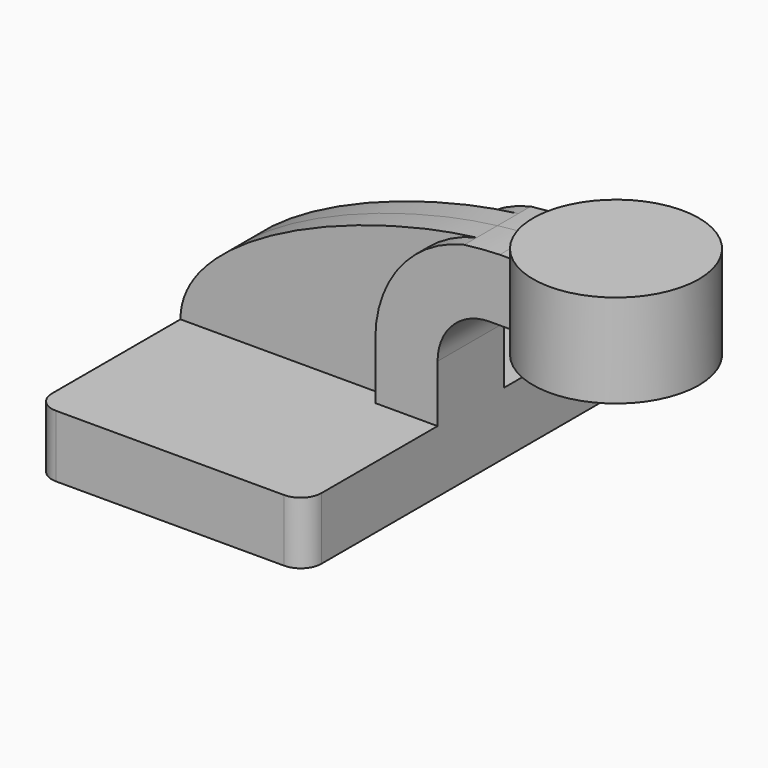
from build123d import *

# Parameters (mm, degrees)
F1_DEPTH = 63.5
F0_W     = 25.432032
F0_H     = 19.05
F2_DEPTH = 12.7
F3_DEPTH = 7.9375
F5_R     = 6.35


with BuildPart() as f1:
    # F0 (on Front) → F1 (new body, symmetric)
    with BuildSketch(Plane.XZ):
        Polygon((-41.275, -9.525), (41.275, -9.525), (41.275, 9.525), (22.225, 9.525), (-41.275, 9.525), align=None)
    extrude(amount=F1_DEPTH, both=True)

    # F0 (on Front) → F2 (join, symmetric)
    with BuildSketch(Plane.XZ):
        with BuildLine():
            Line((22.225, 9.525), (41.275, 9.525))
            Line((41.275, 9.525), (41.275, 27.0002))
            ThreePointArc((41.275, 27.0002), (45.92468, 38.22552), (57.15, 42.8752))
            Line((57.15, 42.8752), (60.325, 42.8752))
            Line((60.325, 42.8752), (60.325, 61.9252))
            add(Edge.make_bspline(
                [(49.467139, 61.069677), (53.266312, 61.53517), (56.908996, 61.825166), (60.325, 61.9252)],
                knots=[103.848295, 103.848295, 103.848295, 103.848295, 114.316845, 114.316845, 114.316845, 114.316845], degree=3))
            ThreePointArc((49.467139, 61.069677), (29.872907, 48.811111), (22.225, 27.0002))
            Line((22.225, 27.0002), (22.225, 9.525))
        make_face()
        with Locations((73.041016, 52.4002)):
            Rectangle(F0_W, F0_H)
    extrude(amount=F2_DEPTH, both=True)

    # F0 (on Front) → F3 (join, symmetric)
    with BuildSketch(Plane.XZ):
        with BuildLine():
            add(Edge.make_bspline(
                [(-41.275, 9.525), (-41.308278, 34.564084), (11.77924, 56.451974), (49.467139, 61.069677)],
                knots=[0, 0, 0, 0, 103.848295, 103.848295, 103.848295, 103.848295], degree=3))
            Line((-41.275, 9.525), (22.225, 9.525))
            Line((22.225, 9.525), (22.225, 27.0002))
            ThreePointArc((22.225, 27.0002), (29.872907, 48.811111), (49.467139, 61.069677))
        make_face()
    extrude(amount=F3_DEPTH, both=True)

    # F0 (on Front) → F4 (revolve)
    with BuildSketch(Plane.XZ):
        Polygon((85.757032, 66.675), (85.757032, 61.9252), (85.757032, 42.8752), (85.757032, 38.1), (111.125, 38.1), (111.125, 66.675), align=None)
    revolve(axis=Axis((85.757032, 0, 52.3875), (0, 0, -1)))

    # F5
    f5_edges = [f1.edges().sort_by_distance(p)[0] for p in [
        (41.275, -63.5, 0),
        (-41.275, -63.5, 0),
        (-41.275, 63.5, 0),
        (41.275, 63.5, 0),
    ]]
    fillet(f5_edges, radius=F5_R)


solid = f1.part
